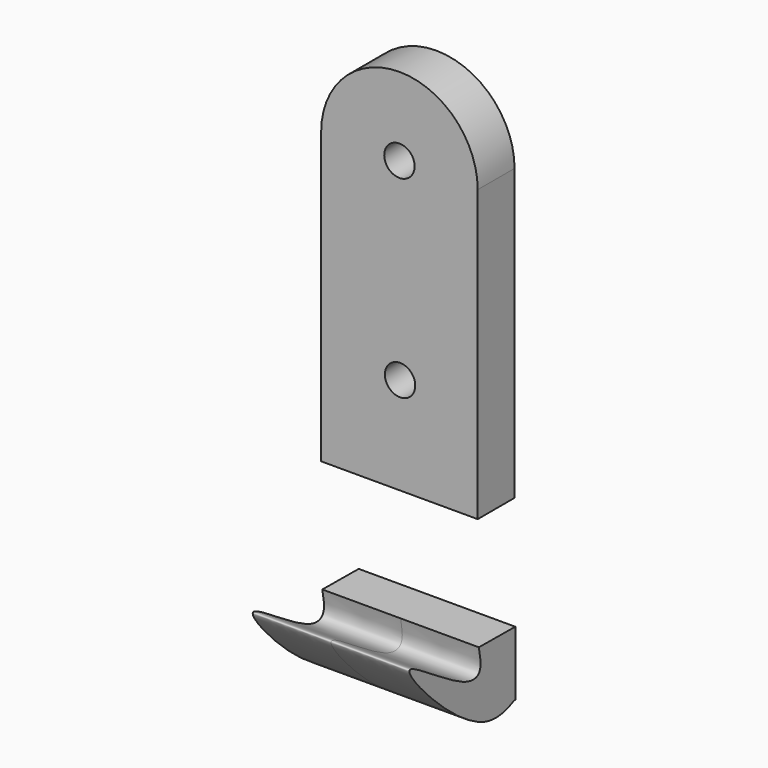
from build123d import *

# Parameters (mm, degrees)
F1_DEPTH       = 5
F3_DEPTH       = 8.5
F4_D           = 3.3
F4_CSINK_D     = 6.72
F4_CSINK_ANGLE = 90


with BuildPart() as f1:
    # F0 (on Front) → F1 (new body)
    with BuildSketch(Plane.XZ):
        with BuildLine():
            ThreePointArc((8.4325509294, 21.5641788055), (-0.0674490706, 30.0641788055), (-8.5674490706, 21.5641788055))
            Line((-8.5674490706, 21.5641788055), (-8.5674490706, -9.9358211945))
            Line((-8.5674490706, -9.9358211945), (8.4325509294, -9.9358211945))
            Line((8.4325509294, -9.9358211945), (8.4325509294, 21.5641788055))
        make_face()
        with BuildLine():
            ThreePointArc((8.4325509294, 21.5641788055), (-0.0674490706, 30.0641788055), (-8.5674490706, 21.5641788055))
            Line((-8.5674490706, 21.5641788055), (-8.5674490706, -9.9358211945))
            Line((-8.5674490706, -9.9358211945), (8.4325509294, -9.9358211945))
            Line((8.4325509294, -9.9358211945), (8.4325509294, 21.5641788055))
        make_face()
    extrude(amount=F1_DEPTH)

    # F4 (through all)
    with Locations(Plane(origin=(0, 0, 0), x_dir=(1, 0, 0), z_dir=(0, 1, 0))):
        with Locations((0, -0.6190594286), (-0.0674490706, -21.5641788055)):
            CounterSinkHole(F4_D / 2, F4_CSINK_D / 2, counter_sink_angle=F4_CSINK_ANGLE)


with BuildPart() as f3:
    # F2 (on Right) → F3 (new body, symmetric)
    with BuildSketch(Plane.YZ):
        with BuildLine():
            Line((0.013565836, -22.2315713763), (-4.9255341291, -22.1924073994))
            add(Edge.make_bspline(
                [(-4.9255341291, -22.1924073994), (-4.7449644372, -23.1077914368), (-4.3885025253, -24.914855866), (-7.1527987917, -25.4021910895), (-19.9273497333, -15.5434690169), (-4.5023920771, -32.5137191407), (-0.0885803837, -29.0693910148), (0.0112932377, -29.2125822191), (0.013565836, -29.2206046382)],
                knots=[0, 0, 0, 0, 0.1281220998, 0.2529263302, 0.4943221397, 0.8059857979, 0.971340208, 0.9787578336, 0.9787578336, 0.9787578336, 0.9787578336], degree=3))
            Line((0.013565836, -29.2206046382), (0.013565836, -22.2315713763))
        make_face()
    extrude(amount=F3_DEPTH, both=True)


solid = Compound([f1.part, f3.part])
